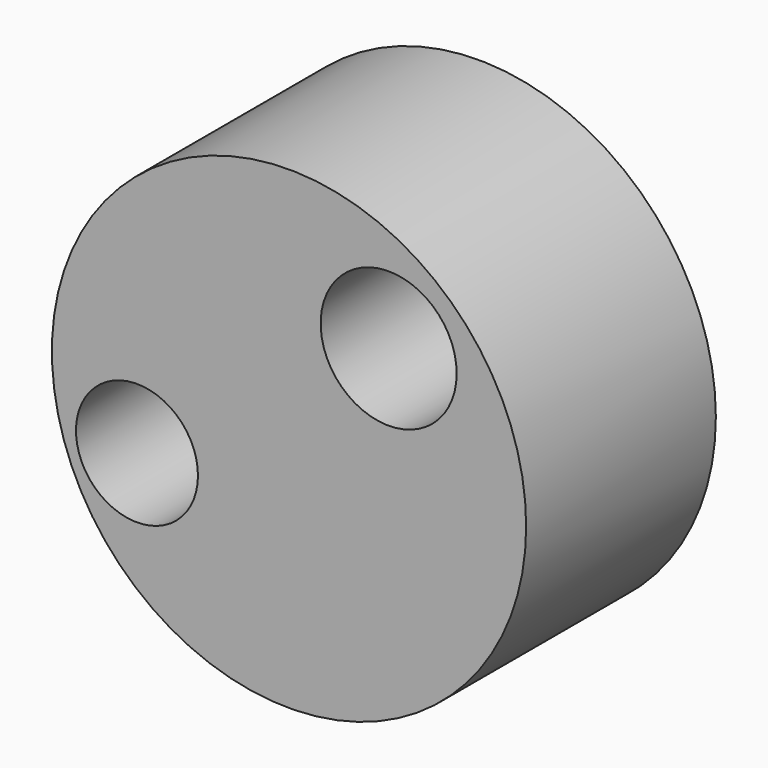
from build123d import *

# Parameters (mm, degrees)
F0_R     = 25.4
F1_DEPTH = 25.4
F2_R     = 6.532194
F2_R_2   = 7.28443
F3_DEPTH = 25.4


with BuildPart() as f1:
    # F0 (on Front) → F1 (new body)
    with BuildSketch(Plane.XZ):
        Circle(F0_R)
    extrude(amount=F1_DEPTH)

    # F2 (on face) → F3 (cut)
    with BuildSketch(Plane.XZ.offset(25.4)):
        with Locations((-16.286872, -6.65387)):
            Circle(F2_R)
        with Locations((10.672516, 11.980738)):
            Circle(F2_R_2)
    extrude(amount=-F3_DEPTH, mode=Mode.SUBTRACT)


solid = f1.part
